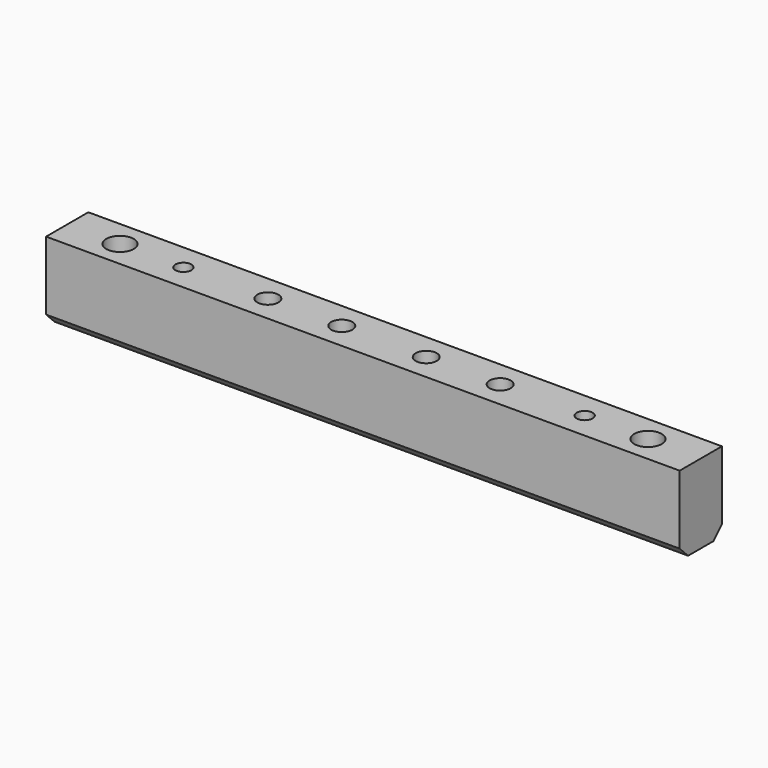
from build123d import *

# Parameters (mm, degrees)
F0_W     = 120
F0_H     = 10
F0_R     = 2.6
F0_R_2   = 1.5
F0_R_3   = 2
F1_DEPTH = 15
F2_SIZE  = 2


with BuildPart() as f1:
    # F0 (on Top) → F1 (new body)
    with BuildSketch(Plane.XY):
        Rectangle(F0_W, F0_H)
        with Locations((-50, 0)):
            Circle(F0_R, mode=Mode.SUBTRACT)
        with Locations((-38, 0)):
            Circle(F0_R_2, mode=Mode.SUBTRACT)
        with Locations((-22, 0)):
            Circle(F0_R_3, mode=Mode.SUBTRACT)
        with Locations((-8, 0)):
            Circle(F0_R_3, mode=Mode.SUBTRACT)
        with Locations((8, 0)):
            Circle(F0_R_3, mode=Mode.SUBTRACT)
        with Locations((22, 0)):
            Circle(F0_R_3, mode=Mode.SUBTRACT)
        with Locations((38, 0)):
            Circle(F0_R_2, mode=Mode.SUBTRACT)
        with Locations((50, 0)):
            Circle(F0_R, mode=Mode.SUBTRACT)
    extrude(amount=-F1_DEPTH)

    # F2
    f2_edges = [f1.edges().sort_by_distance(p)[0] for p in [
        (0, -5, -15),
        (0, 5, -15),
    ]]
    chamfer(f2_edges, length=F2_SIZE)


solid = f1.part
